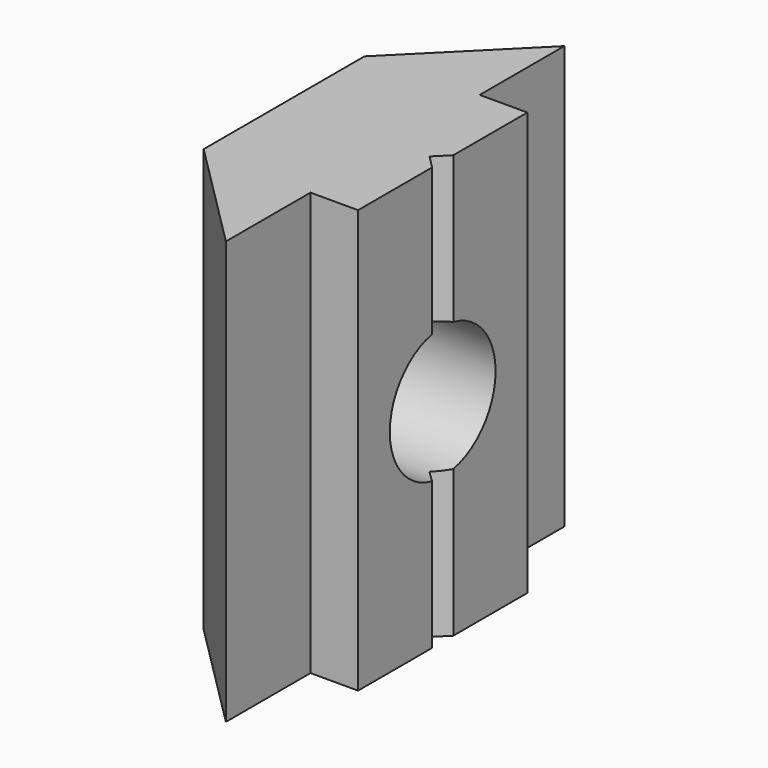
from build123d import *

# Parameters (mm, degrees)
F1_DEPTH = 16
F3_D     = 5
F3_DEPTH = 15
F3_TIP   = 1.5021515476


with BuildPart() as f1:
    # F0 (on Top) → F1 (new body)
    with BuildSketch(Plane.XY):
        Polygon((-0.5, 0), (0, 0.5), (0, 4), (-1.8, 4), (-1.8, 8), (-6, 3.8), (-6, 0), (-6, -3.8), (-1.8, -8), (-1.8, -4), (0, -4), (0, -0.5), align=None)
    extrude(amount=F1_DEPTH)

    # F3
    with Locations(Plane(origin=(-6, 0, 0), x_dir=(0, -1, 0), z_dir=(-1, 0, 0))):
        with Locations((0, 8)):
            Hole(F3_D / 2, depth=F3_DEPTH)
            with Locations((0, 0, -(F3_DEPTH + F3_TIP / 2))):  # 118° drill point
                Cone(0, F3_D / 2, F3_TIP, mode=Mode.SUBTRACT)


solid = f1.part
